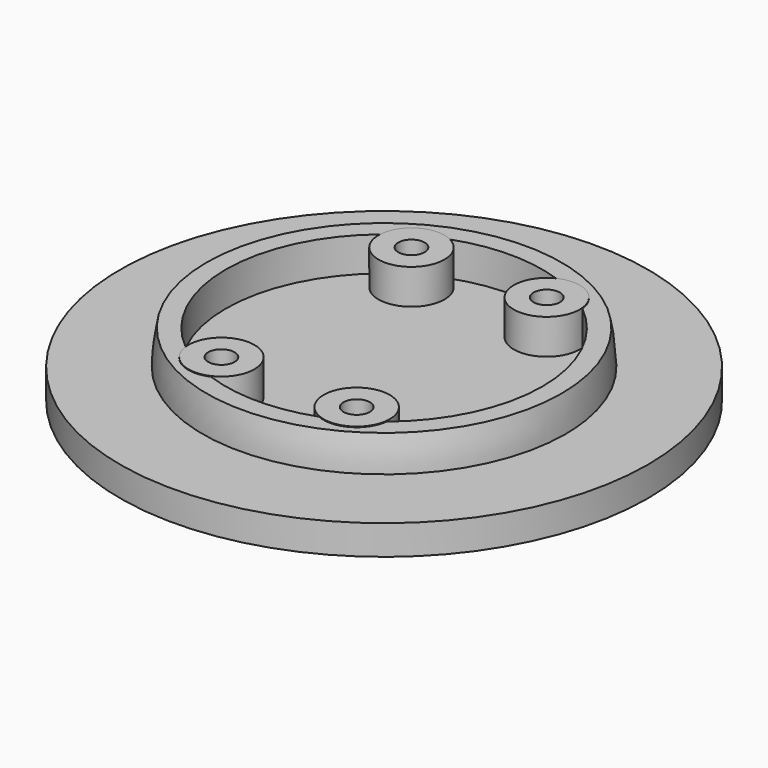
from build123d import *

# Parameters (mm, degrees)
CYLINDER180_R             = 2
CYLINDER180_DEPTH         = 10
CYLINDER181_R             = 2
CYLINDER181_DEPTH         = 10
CYLINDER182_R             = 2
CYLINDER182_DEPTH         = 10
CYLINDER183_R             = 2
CYLINDER183_DEPTH         = 10
CYLINDER170_R             = 2
CYLINDER170_DEPTH         = 10
CYLINDER171_R             = 2
CYLINDER171_DEPTH         = 10
CYLINDER172_R             = 2
CYLINDER172_DEPTH         = 10
CYLINDER169_R             = 2
CYLINDER169_DEPTH         = 10
FUSION111_PLACEMENT_ANGLE = 45
CYLINDER175_R             = 5.5
CYLINDER175_DEPTH         = 1
CYLINDER176_R             = 5
CYLINDER176_DEPTH         = 5.82
CYLINDER177_R             = 5
CYLINDER177_DEPTH         = 5.82
CYLINDER178_R             = 5
CYLINDER178_DEPTH         = 5.82
CYLINDER179_R             = 5
CYLINDER179_DEPTH         = 5.82
CYLINDER173_R             = 40
CYLINDER173_DEPTH         = 4.5
CYLINDER174_R             = 24
CYLINDER174_DEPTH         = 7


with BuildPart() as cylinder180:
    # Cylinder180 → Cylinder180 (new body)
    with BuildSketch(Plane(origin=(0, -21, 0), x_dir=(1, 0, 0), z_dir=(0, 0, 1))):
        Circle(CYLINDER180_R)
    extrude(amount=CYLINDER180_DEPTH)


with BuildPart() as m3heatsetcuts031:
    # Cylinder181 → Cylinder181 (new body)
    with BuildSketch(Plane(origin=(20.5, -21, 0), x_dir=(1, 0, 0), z_dir=(0, 0, 1))):
        Circle(CYLINDER181_R)
    extrude(amount=CYLINDER181_DEPTH)

    # Fusion118: union Cylinder180
    add(cylinder180.part)


with BuildPart() as m3heatsetcuts031_1:
    # Fusion118 placement: moved
    add(m3heatsetcuts031.part.moved(Location((-5, 39, 70))))


with BuildPart() as cylinder182:
    # Cylinder182 → Cylinder182 (new body)
    with BuildSketch(Plane(origin=(0, -21, 0), x_dir=(1, 0, 0), z_dir=(0, 0, 1))):
        Circle(CYLINDER182_R)
    extrude(amount=CYLINDER182_DEPTH)


with BuildPart() as m3heatsetcuts030:
    # Cylinder183 → Cylinder183 (new body)
    with BuildSketch(Plane(origin=(20.5, -21, 0), x_dir=(1, 0, 0), z_dir=(0, 0, 1))):
        Circle(CYLINDER183_R)
    extrude(amount=CYLINDER183_DEPTH)

    # Fusion119: union Cylinder182
    add(cylinder182.part)


with BuildPart() as m3heatsetcuts030_1:
    # Fusion119 placement: moved
    add(m3heatsetcuts030.part.moved(Location((-5, 3, 70))))

    # Fusion117: union m3HeatSetCuts031
    add(m3heatsetcuts031_1.part)


with BuildPart() as m3heatsetcuts030_2:
    # Fusion117 placement: moved
    add(m3heatsetcuts030_1.part.moved(Location((128.75, 10, -1))))


with BuildPart() as obj1:
    # Cylinder170 → Cylinder170 (new body)
    with BuildSketch(Plane(origin=(35, 0, 65), x_dir=(1, 0, 0), z_dir=(0, 0, 1))):
        Circle(CYLINDER170_R)
    extrude(amount=CYLINDER170_DEPTH)


with BuildPart() as obj2:
    # Cylinder171 → Cylinder171 (new body)
    with BuildSketch(Plane(origin=(0, 35, 65), x_dir=(1, 0, 0), z_dir=(0, 0, 1))):
        Circle(CYLINDER171_R)
    extrude(amount=CYLINDER171_DEPTH)


with BuildPart() as obj3:
    # Cylinder172 → Cylinder172 (new body)
    with BuildSketch(Plane(origin=(0, -35, 65), x_dir=(1, 0, 0), z_dir=(0, 0, 1))):
        Circle(CYLINDER172_R)
    extrude(amount=CYLINDER172_DEPTH)


with BuildPart() as fusion120:
    # Cylinder169 → Cylinder169 (new body)
    with BuildSketch(Plane(origin=(-35, 0, 65), x_dir=(1, 0, 0), z_dir=(0, 0, 1))):
        Circle(CYLINDER169_R)
    extrude(amount=CYLINDER169_DEPTH)

    # Fusion111: union obj1, obj2, obj3
    add(obj1.part)
    add(obj2.part)
    add(obj3.part)


with BuildPart() as fusion120_1:
    # Fusion111 placement: moved
    add(fusion120.part.moved(Location((0, -374, -75))).rotate(Axis((0, -374, -75), (0, 0, -1)), FUSION111_PLACEMENT_ANGLE))

    # Fusion120: union m3HeatSetCuts030
    add(m3heatsetcuts030_2.part)


with BuildPart() as cylinder175:
    # Cylinder175 → Cylinder175 (new body)
    with BuildSketch(Plane(origin=(134, 32.6, 65), x_dir=(1, 0, 0), z_dir=(0, 0, 1))):
        Circle(CYLINDER175_R)
    extrude(amount=CYLINDER175_DEPTH)


with BuildPart() as cylinder176:
    # Cylinder176 → Cylinder176 (new body)
    with BuildSketch(Plane(origin=(0, -21, 0), x_dir=(1, 0, 0), z_dir=(0, 0, 1))):
        Circle(CYLINDER176_R)
    extrude(amount=CYLINDER176_DEPTH)


with BuildPart() as m3heatsetcuts027:
    # Cylinder177 → Cylinder177 (new body)
    with BuildSketch(Plane(origin=(20.5, -21, 0), x_dir=(1, 0, 0), z_dir=(0, 0, 1))):
        Circle(CYLINDER177_R)
    extrude(amount=CYLINDER177_DEPTH)

    # Fusion112: union Cylinder176
    add(cylinder176.part)


with BuildPart() as m3heatsetcuts027_1:
    # Fusion112 placement: moved
    add(m3heatsetcuts027.part.moved(Location((-5, 39, 70))))


with BuildPart() as cylinder178:
    # Cylinder178 → Cylinder178 (new body)
    with BuildSketch(Plane(origin=(0, -21, 0), x_dir=(1, 0, 0), z_dir=(0, 0, 1))):
        Circle(CYLINDER178_R)
    extrude(amount=CYLINDER178_DEPTH)


with BuildPart() as m3heatsetcuts029:
    # Cylinder179 → Cylinder179 (new body)
    with BuildSketch(Plane(origin=(20.5, -21, 0), x_dir=(1, 0, 0), z_dir=(0, 0, 1))):
        Circle(CYLINDER179_R)
    extrude(amount=CYLINDER179_DEPTH)

    # Fusion113: union Cylinder178
    add(cylinder178.part)


with BuildPart() as m3heatsetcuts029_1:
    # Fusion113 placement: moved
    add(m3heatsetcuts029.part.moved(Location((-5, 3, 70))))

    # Fusion114: union m3HeatSetCuts027
    add(m3heatsetcuts027_1.part)


with BuildPart() as m3heatsetcuts029_2:
    # Fusion114 placement: moved
    add(m3heatsetcuts029_1.part.moved(Location((128.75, 10, -1))))


with BuildPart() as base015:
    # Cylinder173 → Cylinder173 (new body)
    with BuildSketch(Plane(origin=(136, 0, 65), x_dir=(1, 0, 0), z_dir=(0, 0, 1))):
        Circle(CYLINDER173_R)
    extrude(amount=CYLINDER173_DEPTH)


with BuildPart() as basecut004:
    # Cylinder174 → Cylinder174 (new body)
    with BuildSketch(Plane(origin=(5, 0, 74), x_dir=(1, 0, 0), z_dir=(0, 0, 1))):
        Circle(CYLINDER174_R)
    extrude(amount=CYLINDER174_DEPTH)


with BuildPart() as cut059:
    # Sphere006 → Sphere006 (revolve)
    with BuildSketch(Plane(origin=(5, 0, 74), x_dir=(1, 0, 0), z_dir=(0, -1, 0))):
        with BuildLine():
            ThreePointArc((27.5, 0), (27.349352, 2.874533), (26.899059, 5.717571))
            Line((26.899059, 5.717571), (0, 5.717571))
            Line((0, 5.717571), (0, 0))
            Line((0, 0), (27.5, 0))
        make_face()
    revolve(axis=Axis((5, 0, 74), (0, 0, 1)))

    # Cut058: cut baseCut004
    add(basecut004.part, mode=Mode.SUBTRACT)


with BuildPart() as cut059_1:
    # Cut058 placement: moved
    add(cut059.part.moved(Location((131, 0, -5))))

    # Fusion115: union base015
    add(base015.part)


with BuildPart() as cut059_2:
    # Fusion115 placement: moved
    add(cut059_1.part.moved(Location((-2, 10, 0))))

    # Fusion116: union Cylinder175, m3HeatSetCuts029
    add(cylinder175.part)
    add(m3heatsetcuts029_2.part)

    # Cut059: cut Fusion120
    add(fusion120_1.part, mode=Mode.SUBTRACT)


solid = cut059_2.part
